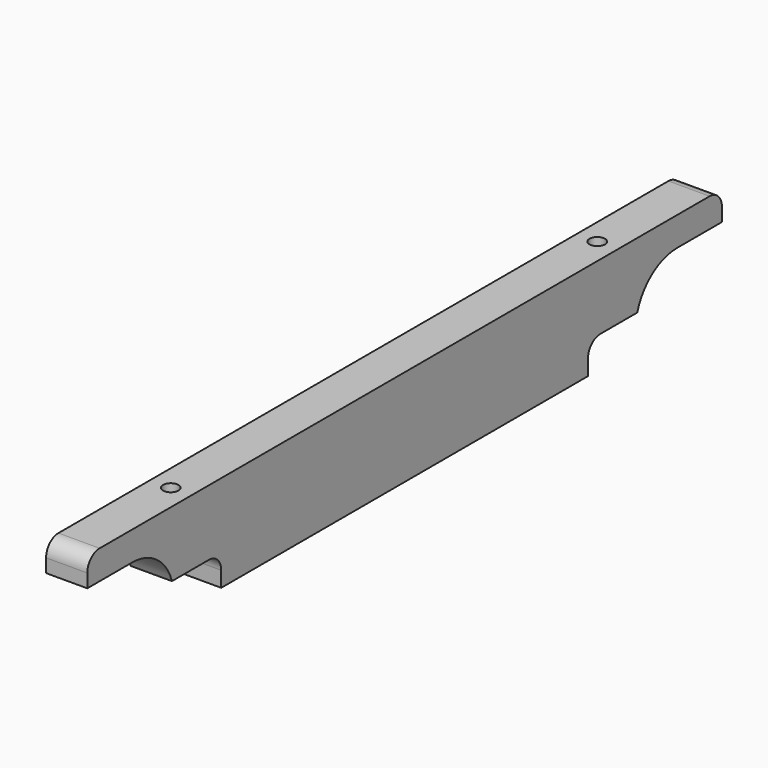
from build123d import *

# Parameters (mm, degrees)
PAD027_DEPTH            = 32
POCKET047_DEPTH         = 32
POCKET048_DEPTH         = 32
SKETCH079_R             = 4
POCKET049_DEPTH         = 10
SKETCH080_R             = 6
POCKET050_DEPTH         = 51
SKETCH081_R             = 12.75
POCKET051_DEPTH         = 1.8
BODY026_ROLL_ANGLE      = 90
BODY026_PLACEMENT_ANGLE = 90


with BuildPart() as part:
    # Sketch076 → Pad027 (new body)
    with BuildSketch(Plane.XY):
        with BuildLine():
            Line((-296, 75), (296, 75))
            ThreePointArc((308, 63), (304.485281, 71.485281), (296, 75))
            Line((308, 63), (308, 0))
            Line((308, 0), (-308, 0))
            Line((-308, 0), (-308, 63))
            ThreePointArc((-296, 75), (-304.485281, 71.485281), (-308, 63))
        make_face()
    extrude(amount=PAD027_DEPTH)

    # Sketch077 (on Face8 of Pad027) → Pocket047 (cut)
    with BuildSketch(Plane.XY.offset(32)):
        with BuildLine():
            Line((-308, 24), (-190, 24))
            ThreePointArc((-178, 12), (-181.514719, 20.485281), (-190, 24))
            Line((-178, 12), (-178, 0))
            Line((-178, 0), (-308, 0))
            Line((-308, 0), (-308, 24))
        make_face()
    pocket047 = extrude(amount=-POCKET047_DEPTH, mode=Mode.SUBTRACT)

    # Mirrored018: Pocket047 across Sketch077 V_Axis
    add(pocket047.mirror(Plane(origin=(0, 0, 32), x_dir=(0, 0, 1), z_dir=(1, 0, 0))), mode=Mode.SUBTRACT)

    # Sketch078 (on Face4 of Mirrored018) → Pocket048 (cut)
    with BuildSketch(Plane.XY.offset(32)):
        with BuildLine():
            ThreePointArc((-264.5, -28.5), (-224, 12), (-264.5, 52.5))
            Line((-345.5, 52.5), (-264.5, 52.5))
            Line((-345.5, -28.5), (-345.5, 52.5))
            Line((-264.5, -28.5), (-345.5, -28.5))
        make_face()
    pocket048 = extrude(amount=-POCKET048_DEPTH, mode=Mode.SUBTRACT)

    # Mirrored019: Pocket048 across Sketch078 V_Axis
    add(pocket048.mirror(Plane(origin=(0, 0, 32), x_dir=(0, 0, 1), z_dir=(1, 0, 0))), mode=Mode.SUBTRACT)

    # Sketch079 (on Face2 of Mirrored019) → Pocket049 (cut)
    with BuildSketch(Plane(origin=(0, 0, 0), x_dir=(1, 0, 0), z_dir=(0, 0, -1))):
        with Locations((-284, -63.75)):
            Circle(SKETCH079_R)
        with Locations((-102.666667, -25)):
            Circle(SKETCH079_R)
        with Locations((0, -25)):
            Circle(SKETCH079_R)
        with Locations((102.666667, -25)):
            Circle(SKETCH079_R)
        with Locations((284, -63.75)):
            Circle(SKETCH079_R)
    extrude(amount=-POCKET049_DEPTH, mode=Mode.SUBTRACT)

    # Sketch080 (on Face9 of Pocket049) → Pocket050 (cut)
    with BuildSketch(Plane.XZ.offset(-24)):
        with Locations((207, 16)):
            Circle(SKETCH080_R)
    pocket050 = extrude(amount=-POCKET050_DEPTH, mode=Mode.SUBTRACT)

    # Sketch081 (on Face9 of Pocket050) → Pocket051 (cut)
    with BuildSketch(Plane.XZ.offset(-24)):
        with Locations((207, 16)):
            Circle(SKETCH081_R)
    extrude(amount=-POCKET051_DEPTH, mode=Mode.SUBTRACT)

    # Mirrored020: Pocket050 across Sketch080 V_Axis
    add(pocket050.mirror(Plane(origin=(0, 24, 0), x_dir=(0, -1, 0), z_dir=(1, 0, 0))), mode=Mode.SUBTRACT)


with BuildPart() as part_1:
    # Body026 roll: moved
    add(part.part.rotate(Axis((0, 0, 0), (1, 0, 0)), BODY026_ROLL_ANGLE))


with BuildPart() as part_2:
    # Body026 placement: moved
    add(part_1.part.moved(Location((210, 308, 18))).rotate(Axis((210, 308, 18), (0, 0, 1)), BODY026_PLACEMENT_ANGLE))


solid = part_2.part
